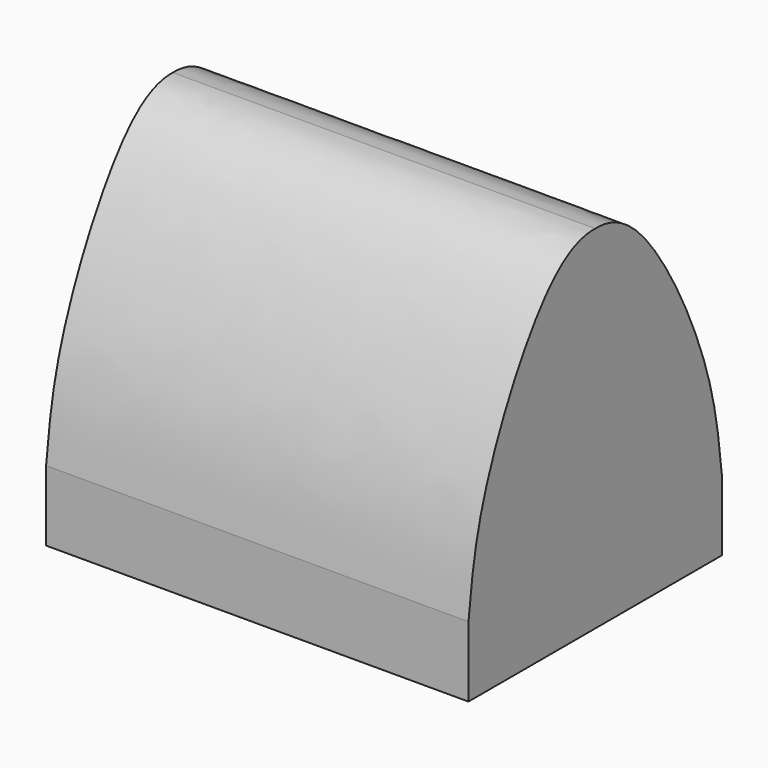
from build123d import *

# Parameters (mm, degrees)
F2_W     = 90
F2_H     = 20
F3_DEPTH = 120


with BuildPart() as f3:
    # F2 (on plane+point) → F3 (new body, through all)
    with BuildSketch(Plane.YZ.offset(-120)):
        with BuildLine():
            Line((-45, 20), (45, 20))
            add(Edge.make_bspline(
                [(45, 20), (43.9216641477, 29.5882127436), (41.6413793137, 47.3415516299), (24.9581268912, 84.1026361306), (9.2870616411, 100.2961582598), (0, 100)],
                knots=[0, 0, 0, 0, 0.3112607769, 0.6874723411, 1, 1, 1, 1], degree=3))
            add(Edge.make_bspline(
                [(-45, 20), (-43.9216641477, 29.5882127436), (-41.6413793137, 47.3415516299), (-24.9581268912, 84.1026361306), (-9.2870616411, 100.2961582598), (0, 100)],
                knots=[0, 0, 0, 0, 0.3112607769, 0.6874723411, 1, 1, 1, 1], degree=3))
        make_face()
        with Locations((0, 10)):
            Rectangle(F2_W, F2_H)
    extrude(amount=F3_DEPTH)


solid = f3.part
